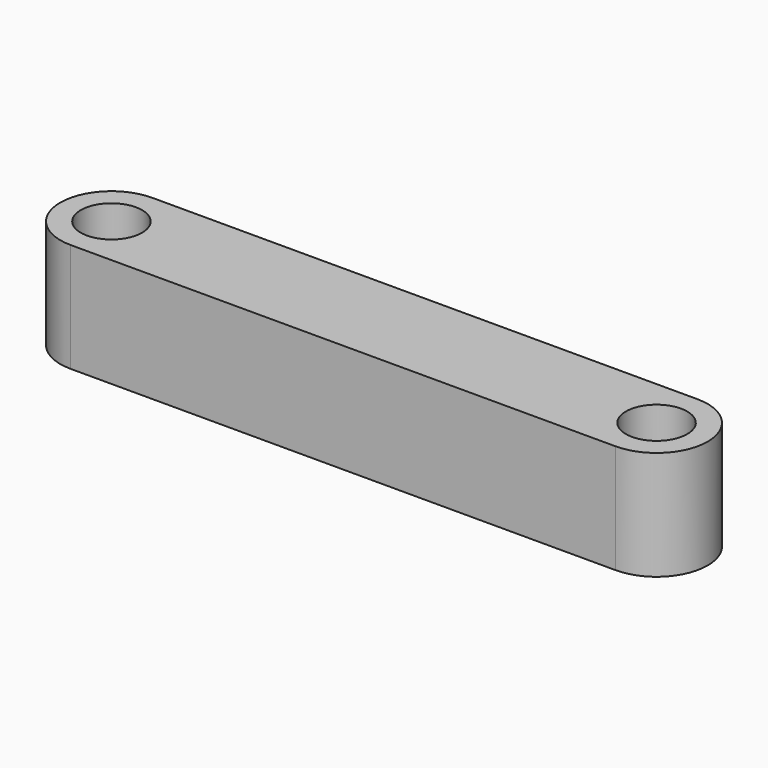
from build123d import *

# Parameters (mm, degrees)
F1_DEPTH = 160
F2_R     = 45
F3_DEPTH = 291


with BuildPart() as f1:
    # F0 (on Top) → F1 (new body)
    with BuildSketch(Plane.XY):
        with BuildLine():
            Line((800, 75), (0, 75))
            ThreePointArc((0, 75), (-75, 0), (0, -75))
            Line((0, -75), (800, -75))
            Line((800, -75), (800, 75))
        make_face()
        with BuildLine():
            ThreePointArc((800, -75), (875, 0), (800, 75))
            Line((800, 75), (800, -75))
        make_face()
    extrude(amount=F1_DEPTH)

    # F2 (on face) → F3 (cut)
    with BuildSketch(Plane(origin=(0, 0, 0), x_dir=(1, 0, 0), z_dir=(0, 0, -1))):
        Circle(F2_R)
        with Locations((800, 0)):
            Circle(F2_R)
    extrude(amount=-F3_DEPTH, mode=Mode.SUBTRACT)


solid = f1.part
